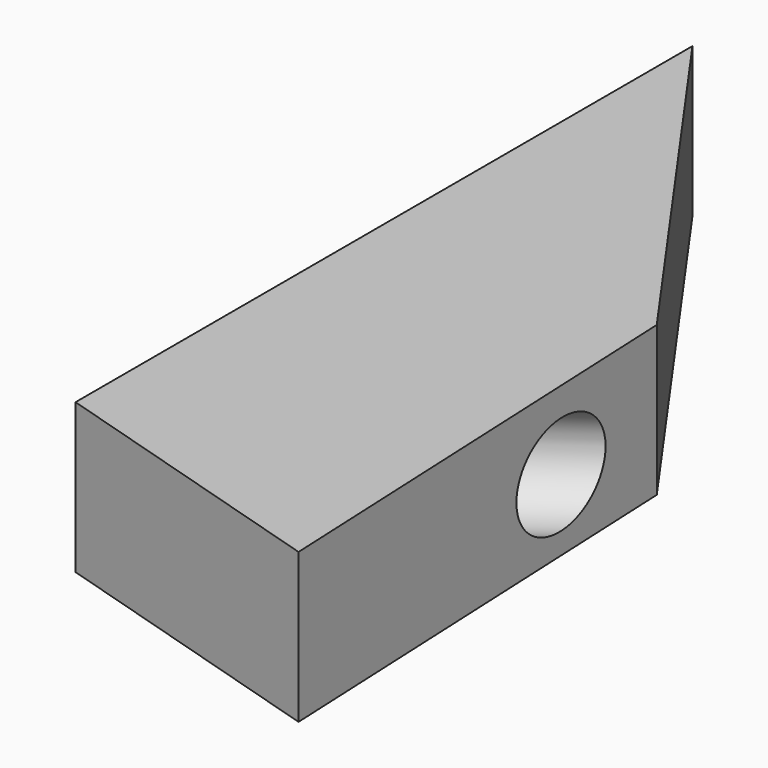
from build123d import *

# Parameters (mm, degrees)
F0_DEPTH = 25.4
F3_R     = 8.443282
F1_DEPTH = 50.8


with BuildPart() as f0:
    # F2 (on Top) → F0 (new body)
    with BuildSketch(Plane.XY):
        Polygon((0, 130.893424), (0, 0), (49.935952, -15.109763), (46.298295, 65.446712), align=None)
    extrude(amount=F0_DEPTH)

    # F3 (on face) → F1 (cut)
    with BuildSketch(Plane(origin=(61.712848, 43.656886, 0), x_dir=(-0.577521, 0.816376, 0), z_dir=(0.816376, 0.577521, 0))):
        with Locations((8.550267, 12.108196)):
            Circle(F3_R)
    extrude(amount=-F1_DEPTH, mode=Mode.SUBTRACT)


solid = f0.part
